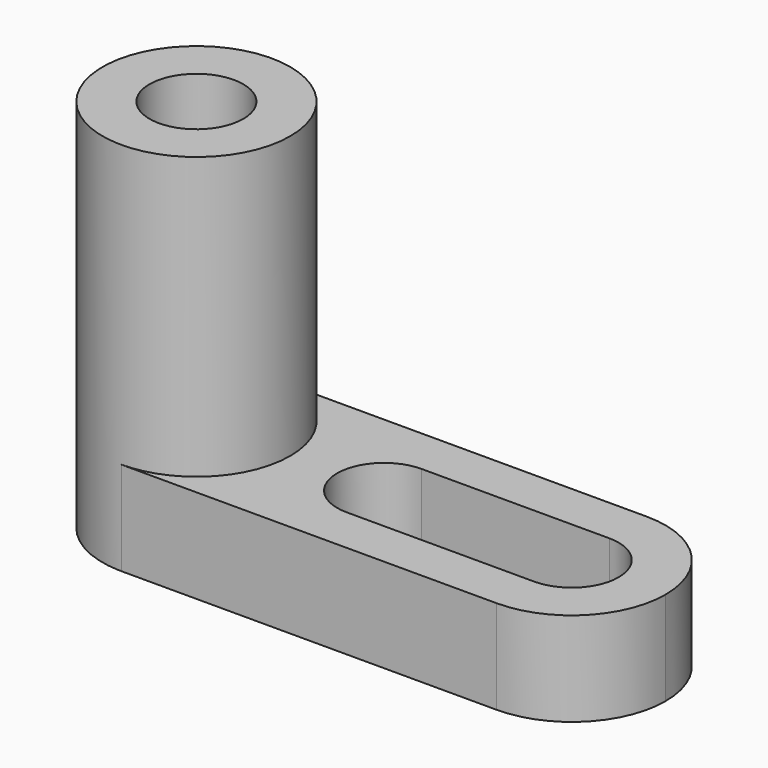
from build123d import *

# Parameters (mm, degrees)
F0_R     = 12.7
F1_DEPTH = 50.8
F3_DEPTH = 12.7
F5_DEPTH = 12.7
F6_R     = 6.35
F7_DEPTH = 50.8
F9_DEPTH = 12.7


with BuildPart() as f1:
    # F0 (on Top) → F1 (new body)
    with BuildSketch(Plane.XY):
        Circle(F0_R)
    extrude(amount=F1_DEPTH)


with BuildPart() as f3:
    # F2 (on Top) → F3 (new body)
    with BuildSketch(Plane.XY):
        with BuildLine():
            Line((0, 12.7), (0, -12.7))
            Line((0, -12.7), (50.8, -12.7))
            ThreePointArc((50.8, -12.7), (38.1, 0), (50.8, 12.7))
            Line((50.8, 12.7), (0, 12.7))
        make_face()
        with BuildLine():
            Line((50.8, 12.7), (50.8, -12.7))
            ThreePointArc((50.8, -12.7), (59.7802561211, -8.9802561211), (63.5, 0))
            ThreePointArc((63.5, 0), (59.7802561211, 8.9802561211), (50.8, 12.7))
        make_face()
        with BuildLine():
            ThreePointArc((50.8, 12.7), (38.1, 0), (50.8, -12.7))
            Line((50.8, -12.7), (50.8, 12.7))
        make_face()
    extrude(amount=F3_DEPTH)

    # F4 (on face) → F5 (cut)
    with BuildSketch(Plane.XY.offset(12.7)):
        with BuildLine():
            ThreePointArc((57.15, 0), (55.2901280605, 4.4901280605), (50.8, 6.35))
            Line((50.8, 6.35), (50.8, -6.35))
            ThreePointArc((50.8, -6.35), (55.2901280605, -4.4901280605), (57.15, 0))
        make_face()
        with BuildLine():
            Line((50.8, -6.35), (50.8, 6.35))
            ThreePointArc((50.8, 6.35), (44.45, 0), (50.8, -6.35))
        make_face()
        with BuildLine():
            ThreePointArc((50.8, -6.35), (44.45, 0), (50.8, 6.35))
            Line((50.8, 6.35), (25.4, 6.35))
            ThreePointArc((25.4, 6.35), (29.8901280605, 4.4901280605), (31.75, 0))
            ThreePointArc((31.75, 0), (29.8901280605, -4.4901280605), (25.4, -6.35))
            Line((25.4, -6.35), (50.8, -6.35))
        make_face()
        with BuildLine():
            ThreePointArc((31.75, 0), (29.8901280605, 4.4901280605), (25.4, 6.35))
            Line((25.4, 6.35), (25.4, -6.35))
            ThreePointArc((25.4, -6.35), (29.8901280605, -4.4901280605), (31.75, 0))
        make_face()
        with BuildLine():
            Line((25.4, -6.35), (25.4, 6.35))
            ThreePointArc((25.4, 6.35), (19.05, 0), (25.4, -6.35))
        make_face()
    extrude(amount=-F5_DEPTH, mode=Mode.SUBTRACT)


with BuildPart() as f7_tool:
    # F6 (on face) → F7 (new body)
    with BuildSketch(Plane.XY.offset(50.8)):
        Circle(F6_R)
    extrude(amount=-F7_DEPTH)


with BuildPart() as f1_1:
    add(f1.part)

    # F7: cut by f7_tool
    add(f7_tool.part, mode=Mode.SUBTRACT)

    # F8 (on face) → F9 (cut)
    with BuildSketch(Plane(origin=(0, 0, 0), x_dir=(1, 0, 0), z_dir=(0, 0, -1))):
        with BuildLine():
            ThreePointArc((0, -6.35), (4.4901280605, -4.4901280605), (6.35, 0))
            ThreePointArc((6.35, 0), (4.4901280605, 4.4901280605), (0, 6.35))
            ThreePointArc((0, 6.35), (-6.35, 0), (0, -6.35))
        make_face()
    extrude(amount=-F9_DEPTH, mode=Mode.SUBTRACT)


with BuildPart() as f3_1:
    add(f3.part)

    # F7: cut by f7_tool
    add(f7_tool.part, mode=Mode.SUBTRACT)


solid = Compound([f1_1.part, f3_1.part])
